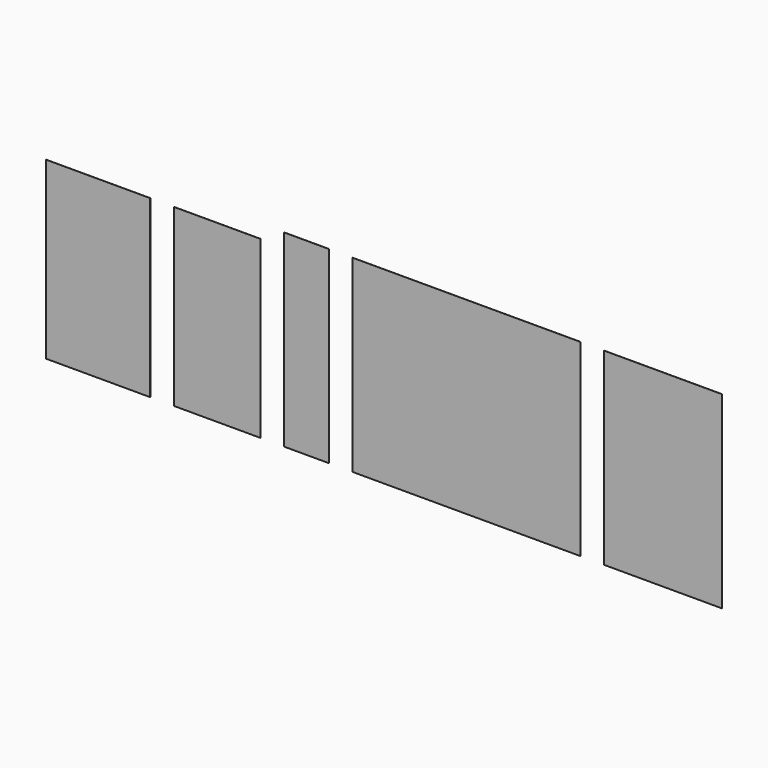
from build123d import *

# Parameters (mm, degrees)
F0_W     = 1325
F0_H     = 2230
F1_DEPTH = 1
F0_W_2   = 1105
F2_DEPTH = 1


with BuildPart() as f1:
    # F0 (on Front) → F1 (new body)
    with BuildSketch(Plane.XZ):
        with Locations((662.5, 1115)):
            Rectangle(F0_W, F0_H)
    extrude(amount=F1_DEPTH)

    # F0 (on Front) → F2 (join)
    with BuildSketch(Plane.XZ):
        with Locations((662.5, 1115)):
            Rectangle(F0_W, F0_H)
        with Locations((2177.5, 1115)):
            Rectangle(F0_W_2, F0_H)
        Polygon((3030, 2230), (3030, 0), (3600, 0), (3600, 2230), (3600, 2400), (3030, 2400), align=None)
        Polygon((3900, 2230), (3900, 0), (6800, 0), (6800, 2230), (6800, 2400), (3900, 2400), align=None)
        Polygon((7100, 2230), (7100, 0), (8600, 0), (8600, 2230), (8600, 2400), (7100, 2400), align=None)
    extrude(amount=F2_DEPTH)


solid = f1.part
